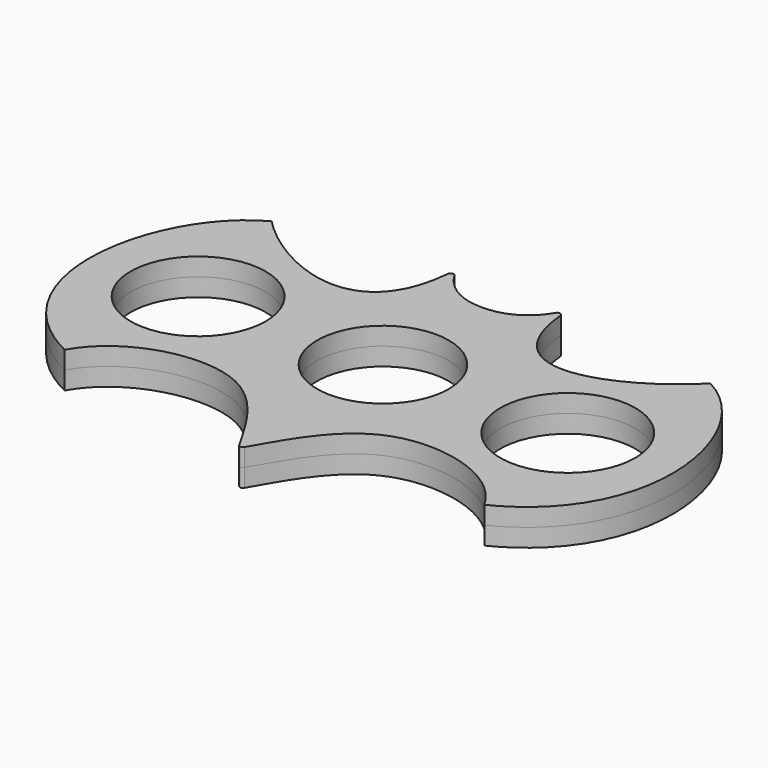
from build123d import *

# Parameters (mm, degrees)
F0_R     = 11.2811018545
F0_R_2   = 11
F1_DEPTH = 3
F2_R     = 0.5


with BuildPart() as f1:
    # F0 (on Top) → F1 (new body, symmetric)
    with BuildSketch(Plane.XY):
        with BuildLine():
            add(Edge.make_bspline(
                [(0, 20.6955336034), (4.176130984, 20.6701047719), (7.5252619572, 22.9629334062), (9.2714373022, 27.0963907242)],
                knots=[0, 0, 0, 0, 11.2663446392, 11.2663446392, 11.2663446392, 11.2663446392], degree=3))
            add(Edge.make_bspline(
                [(0, 20.6955336034), (-4.176130984, 20.6701047719), (-7.5252619572, 22.9629334062), (-9.2714373022, 27.0963907242)],
                knots=[0, 0, 0, 0, 11.2663446392, 11.2663446392, 11.2663446392, 11.2663446392], degree=3))
            add(Edge.make_bspline(
                [(-9.2714373022, 27.0963907242), (-10.252433829, 5.2865850739), (-29.1057825089, 14.5806018263), (-36.6129055619, 22.5558448583)],
                knots=[0, 0, 0, 0, 27.7159240033, 27.7159240033, 27.7159240033, 27.7159240033], degree=3))
            add(Edge.make_bspline(
                [(-36.6129055619, 22.5558448583), (-50.1396395266, 15.5486632138), (-55.6871630251, -12.4141490087), (-35.0454822183, -22.6485729218)],
                knots=[0, 0, 0, 0, 45.2315841285, 45.2315841285, 45.2315841285, 45.2315841285], degree=3))
            add(Edge.make_bspline(
                [(-35.0454822183, -22.6485729218), (-30.9359437749, -15.1486663001), (-9.8708452879, -9.8044342408), (-2.6448085105, -25.9140540409), (0, -30.179258436)],
                knots=[0, 0, 0, 0, 0.523784422, 1, 1, 1, 1], degree=3))
            add(Edge.make_bspline(
                [(35.0454822183, -22.6485729218), (30.9359437749, -15.1486663001), (9.8708452879, -9.8044342408), (2.6448085105, -25.9140540409), (0, -30.179258436)],
                knots=[0, 0, 0, 0, 0.523784422, 1, 1, 1, 1], degree=3))
            add(Edge.make_bspline(
                [(36.6129055619, 22.5558448583), (50.1396395266, 15.5486632138), (55.6871630251, -12.4141490087), (35.0454822183, -22.6485729218)],
                knots=[0, 0, 0, 0, 45.2315841285, 45.2315841285, 45.2315841285, 45.2315841285], degree=3))
            add(Edge.make_bspline(
                [(9.2714373022, 27.0963907242), (10.252433829, 5.2865850739), (29.1057825089, 14.5806018263), (36.6129055619, 22.5558448583)],
                knots=[0, 0, 0, 0, 27.7159240033, 27.7159240033, 27.7159240033, 27.7159240033], degree=3))
        make_face()
        with Locations((-30.8653861284, 0)):
            Circle(F0_R, mode=Mode.SUBTRACT)
        Circle(F0_R_2, mode=Mode.SUBTRACT)
        with Locations((30.8653861284, 0)):
            Circle(F0_R, mode=Mode.SUBTRACT)
    extrude(amount=F1_DEPTH, both=True)

    # F2
    f2_edges = [f1.edges().sort_by_distance(p)[0] for p in [
        (-9.271437, 27.096391, -1.5),
        (-9.271437, 27.096391, 1.5),
        (9.271437, 27.096391, -1.5),
        (9.271437, 27.096391, 1.5),
        (0, -30.179258, -1.5),
        (0, -30.179258, 1.5),
    ]]
    fillet(f2_edges, radius=F2_R)


solid = f1.part
